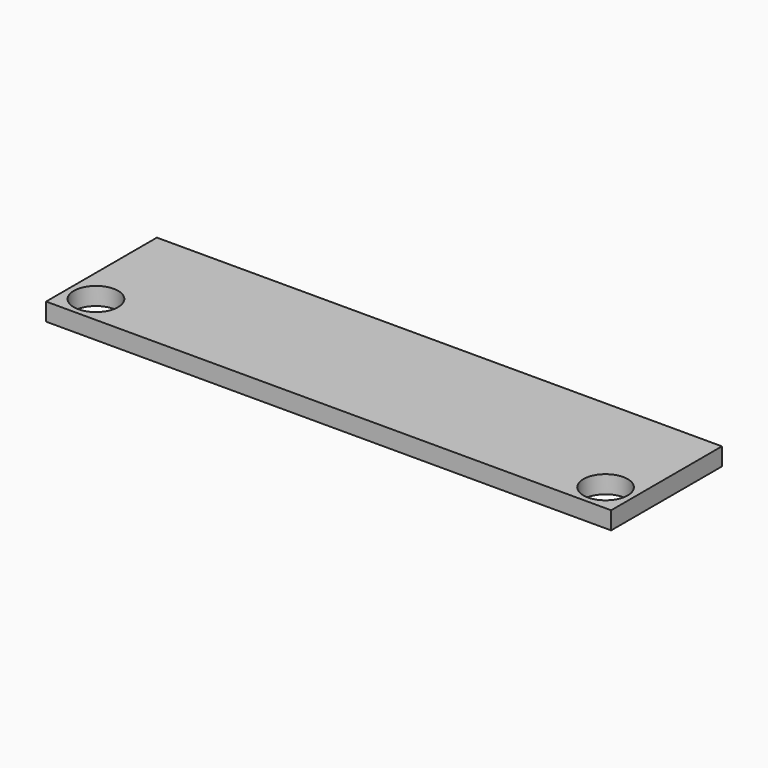
from build123d import *

# Parameters (mm, degrees)
CYLINDER047_R     = 2
CYLINDER047_DEPTH = 10
CYLINDER048_R     = 2
CYLINDER048_DEPTH = 10
BOX_W             = 51
BOX_H             = 12.5
BOX_DEPTH         = 1.6


with BuildPart() as cylinder047:
    # Cylinder047 → Cylinder047 (new body)
    with BuildSketch(Plane(origin=(23, 2.5, 0), x_dir=(1, 0, 0), z_dir=(0, 0, 1))):
        Circle(CYLINDER047_R)
    extrude(amount=CYLINDER047_DEPTH)


with BuildPart() as fusion036:
    # Cylinder048 → Cylinder048 (new body)
    with BuildSketch(Plane(origin=(-23, 2.5, 0), x_dir=(1, 0, 0), z_dir=(0, 0, 1))):
        Circle(CYLINDER048_R)
    extrude(amount=CYLINDER048_DEPTH)

    # Fusion036: union Cylinder047
    add(cylinder047.part)


with BuildPart() as sensor:
    # Box → Box (new body)
    with BuildSketch(Plane(origin=(-25.5, 0, 0), x_dir=(1, 0, 0), z_dir=(0, 0, 1))):
        with Locations((25.5, 6.25)):
            Rectangle(BOX_W, BOX_H)
    extrude(amount=BOX_DEPTH)

    # Cut: cut Fusion036
    add(fusion036.part, mode=Mode.SUBTRACT)


with BuildPart() as sensor_1:
    # Cut placement: moved
    add(sensor.part.moved(Location((0, 139, -1.6))))


solid = sensor_1.part
